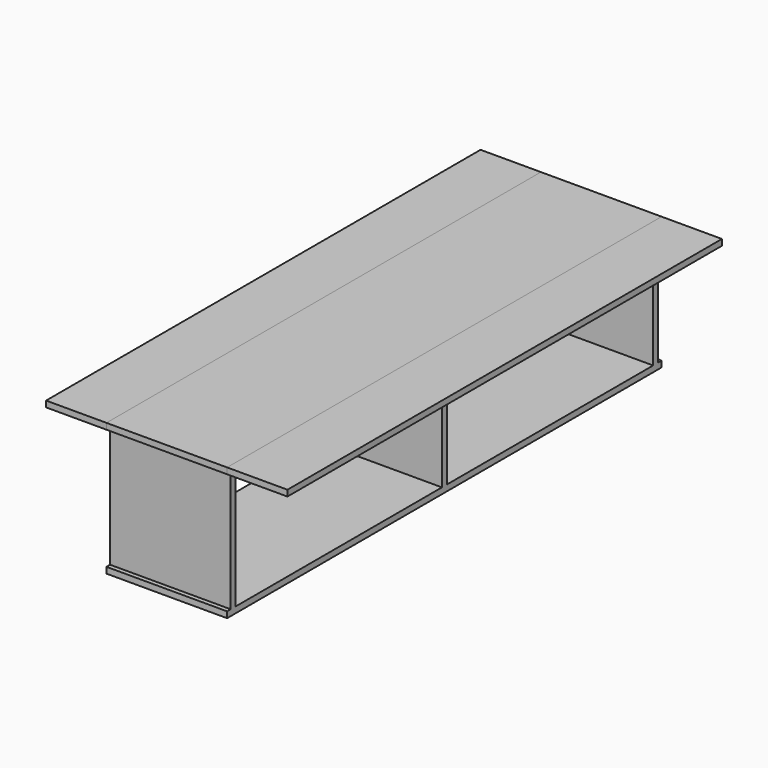
from build123d import *

# Parameters (mm, degrees)
F0_W     = 400
F0_H     = 1800
F1_DEPTH = 20
F2_W     = 400
F2_H     = 20
F3_DEPTH = 400
F4_W     = 400
F4_H     = 1800
F5_DEPTH = 20
F6_W     = 200
F6_H     = 1800
F7_DEPTH = 20


with BuildPart() as f1:
    # F0 (on Top) → F1 (new body)
    with BuildSketch(Plane.XY):
        Rectangle(F0_W, F0_H)
    extrude(amount=F1_DEPTH)

    # F2 (on face) → F3 (join)
    with BuildSketch(Plane(origin=(0, 0, 0), x_dir=(1, 0, 0), z_dir=(0, 0, -1))):
        Rectangle(F2_W, F2_H)
        with Locations((0, 875)):
            Rectangle(F2_W, F2_H)
        with Locations((0, -875)):
            Rectangle(F2_W, F2_H)
    extrude(amount=F3_DEPTH)

    # F4 (on face) → F5 (join)
    with BuildSketch(Plane(origin=(0, 0, -400), x_dir=(1, 0, 0), z_dir=(0, 0, -1))):
        Rectangle(F4_W, F4_H)
    extrude(amount=F5_DEPTH)


with BuildPart() as f7:
    # F6 (on Top) → F7 (new body)
    with BuildSketch(Plane.XY):
        with Locations((-300, 0)):
            Rectangle(F6_W, F6_H)
    extrude(amount=F7_DEPTH)


with BuildPart() as f7b:
    # F6 (on Top) → F7, piece 2 (new body)
    with BuildSketch(Plane.XY):
        with Locations((300, 0)):
            Rectangle(F6_W, F6_H)
    extrude(amount=F7_DEPTH)


solid = Compound([f1.part, f7.part, f7b.part])
